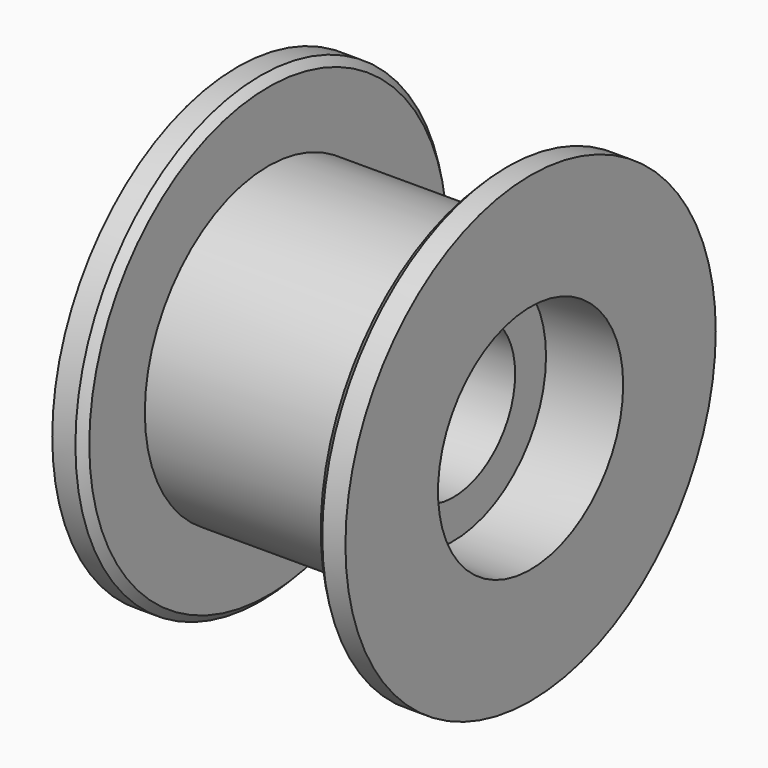
from build123d import *

# Parameters (mm, degrees)
F0_R      = 25.4
F1_DEPTH  = 38.1
F2_R      = 38.1
F2_R_2    = 25.4
F3_DEPTH  = 5.08
F4_R      = 38.1
F5_DEPTH  = 5.08
F6_R      = 19.05
F3_FACE_R = 38.1
F7_DEPTH  = 12.7
F8_R      = 19.05
F9_DEPTH  = 12.7
F10_R     = 12.7
F11_DEPTH = 35.561
F12_SIZE  = 1.27


with BuildPart() as f1:
    # F0 (on Right) → F1 (new body)
    with BuildSketch(Plane.YZ):
        Circle(F0_R)
    extrude(amount=F1_DEPTH)

    # F2 (on face) → F3 (join)
    with BuildSketch(Plane.YZ.offset(38.1)):
        Circle(F2_R)
        Circle(F2_R_2, mode=Mode.SUBTRACT)
        Circle(F2_R_2)
    extrude(amount=F3_DEPTH)

    # F4 (on face) → F5 (join)
    with BuildSketch(Plane(origin=(0, 0, 0), x_dir=(0, -1, 0), z_dir=(-1, 0, 0))):
        Circle(F4_R)
    extrude(amount=F5_DEPTH)

    # F6 (on face) + F3_face (on face) → F7 (cut)
    with BuildSketch(Plane(origin=(-5.08, 0, 0), x_dir=(0, -1, 0), z_dir=(-1, 0, 0))):
        Circle(F6_R)
    with BuildSketch(Plane.YZ.offset(43.18)):
        Circle(F3_FACE_R)
    extrude(amount=-F7_DEPTH, dir=(-1, 0, 0), mode=Mode.SUBTRACT)

    # F8 (on face) → F9 (cut)
    with BuildSketch(Plane.YZ.offset(43.18)):
        Circle(F8_R)
    extrude(amount=-F9_DEPTH, mode=Mode.SUBTRACT)

    # F10 (on face) → F11 (cut, through all)
    with BuildSketch(Plane.YZ.offset(30.48)):
        Circle(F10_R)
    extrude(amount=-F11_DEPTH, mode=Mode.SUBTRACT)

    # F12
    f12_edges = [f1.edges().sort_by_distance(p)[0] for p in [
        (0, 38.1, 0),
        (38.1, -38.1, 0),
    ]]
    chamfer(f12_edges, length=F12_SIZE)


solid = f1.part
